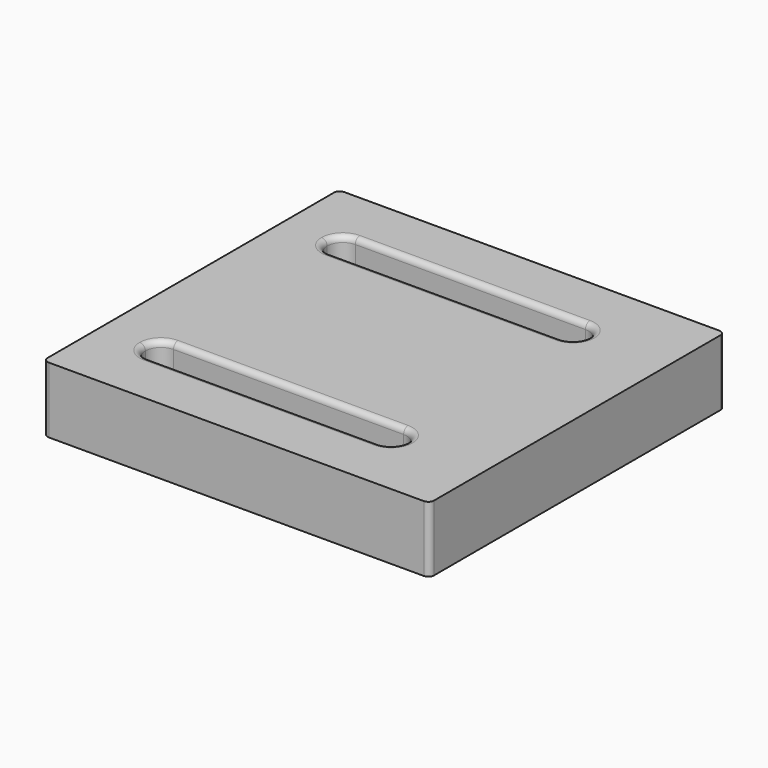
from build123d import *

# Parameters (mm, degrees)
F0_W     = 68
F0_H     = 65
F1_DEPTH = 11.6
F3_DEPTH = 25
F4_R     = 1


with BuildPart() as f1:
    # F0 (on Top) → F1 (new body)
    with BuildSketch(Plane.XY):
        with Locations((34, 32.5)):
            Rectangle(F0_W, F0_H)
    extrude(amount=F1_DEPTH)

    # F2 (on face) → F3 (cut)
    with BuildSketch(Plane.XY.offset(11.6)):
        with BuildLine():
            Line((51.25, 15.25), (10.75, 15.25))
            ThreePointArc((10.75, 15.25), (8.805456, 14.444544), (8, 12.5))
            ThreePointArc((8, 12.5), (8.805456, 10.555456), (10.75, 9.75))
            Line((10.75, 9.75), (51.25, 9.75))
            ThreePointArc((51.25, 9.75), (53.194544, 10.555456), (54, 12.5))
            ThreePointArc((54, 12.5), (53.194544, 14.444544), (51.25, 15.25))
        make_face()
        with BuildLine():
            Line((51.25, 55.25), (10.75, 55.25))
            ThreePointArc((10.75, 55.25), (8.805456, 54.444544), (8, 52.5))
            ThreePointArc((8, 52.5), (8.805456, 50.555456), (10.75, 49.75))
            Line((10.75, 49.75), (51.25, 49.75))
            ThreePointArc((51.25, 49.75), (53.194544, 50.555456), (54, 52.5))
            ThreePointArc((54, 52.5), (53.194544, 54.444544), (51.25, 55.25))
        make_face()
    extrude(amount=-F3_DEPTH, mode=Mode.SUBTRACT)

    # F4
    f4_edges = [f1.edges().sort_by_distance(p)[0] for p in [
        (31, 49.75, 0),
        (31, 9.75, 0),
        (31, 49.75, 11.6),
        (31, 15.25, 11.6),
        (68, 0, 5.8),
        (68, 65, 5.8),
        (0, 65, 5.8),
        (0, 0, 5.8),
    ]]
    fillet(f4_edges, radius=F4_R)


solid = f1.part
